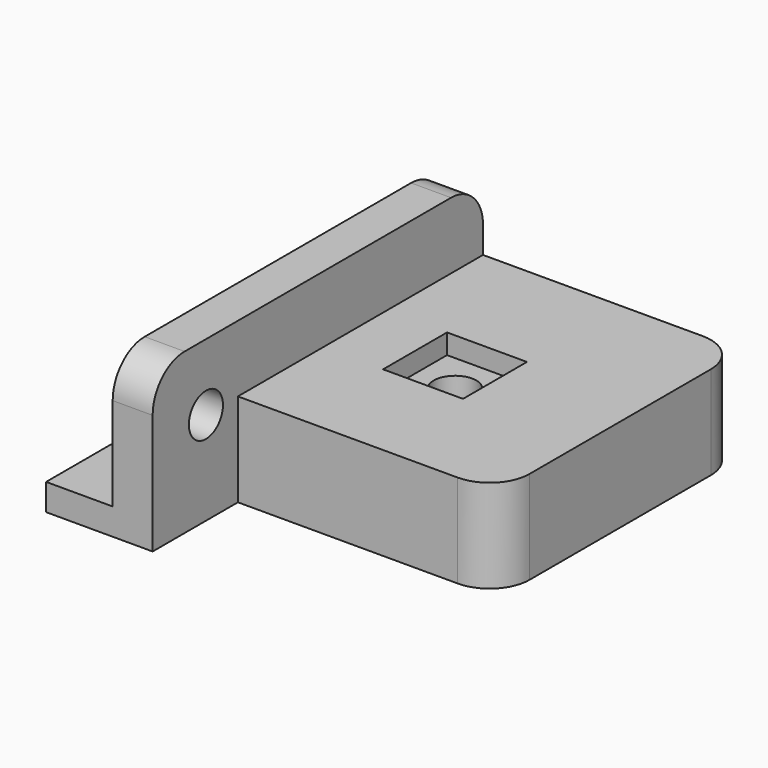
from build123d import *

# Parameters (mm, degrees)
CYLINDER004_R     = 10
CYLINDER004_DEPTH = 4
CYLINDER002_R     = 1.6
CYLINDER002_DEPTH = 3
BOX_W             = 5
BOX_H             = 31
BOX_DEPTH         = 2
BOX002_W          = 3
BOX002_H          = 31
BOX002_DEPTH      = 12
BOX005_W          = 3
BOX005_H          = 31
BOX005_DEPTH      = 5
CYLINDER003_R     = 1.6
CYLINDER003_DEPTH = 10
BOX004_W          = 6
BOX004_H          = 6
BOX004_DEPTH      = 2
CYLINDER_R        = 10
CYLINDER_DEPTH    = 4
BOX003_W          = 25
BOX003_H          = 23
BOX003_DEPTH      = 7
FILLET001_R       = 3
FILLET_R          = 3


with BuildPart() as cylinder004:
    # Cylinder004 → Cylinder004 (new body)
    with BuildSketch(Plane(origin=(7.5, 19, 0), x_dir=(1, 0, 0), z_dir=(0, 0, 1))):
        Circle(CYLINDER004_R)
    extrude(amount=CYLINDER004_DEPTH)


with BuildPart() as cylinder002:
    # Cylinder002 → Cylinder002 (new body)
    with BuildSketch(Plane(origin=(-3, 5, 7), x_dir=(0, 0, -1), z_dir=(1, 0, 0))):
        Circle(CYLINDER002_R)
    extrude(amount=CYLINDER002_DEPTH)


with BuildPart() as cube:
    # Box → Box (new body)
    with BuildSketch(Plane(origin=(-8, 0, 0), x_dir=(1, 0, 0), z_dir=(0, 0, 1))):
        with Locations((2.5, 15.5)):
            Rectangle(BOX_W, BOX_H)
    extrude(amount=BOX_DEPTH)


with BuildPart() as cut:
    # Box002 → Box002 (new body)
    with BuildSketch(Plane(origin=(-3, 0, 0), x_dir=(1, 0, 0), z_dir=(0, 0, 1))):
        with Locations((1.5, 15.5)):
            Rectangle(BOX002_W, BOX002_H)
    extrude(amount=BOX002_DEPTH)

    # Fusion: union Cube
    add(cube.part)

    # Cut: cut Cylinder002
    add(cylinder002.part, mode=Mode.SUBTRACT)


with BuildPart() as cube005:
    # Box005 → Box005 (new body)
    with BuildSketch(Plane(origin=(-6, 0, 2), x_dir=(1, 0, 0), z_dir=(0, 0, 1))):
        with Locations((1.5, 15.5)):
            Rectangle(BOX005_W, BOX005_H)
    extrude(amount=BOX005_DEPTH)


with BuildPart() as cylinder003:
    # Cylinder003 → Cylinder003 (new body)
    with BuildSketch(Plane(origin=(13, 19, 0), x_dir=(1, 0, 0), z_dir=(0, 0, 1))):
        Circle(CYLINDER003_R)
    extrude(amount=CYLINDER003_DEPTH)


with BuildPart() as cube004:
    # Box004 → Box004 (new body)
    with BuildSketch(Plane(origin=(10, 16, 5.5), x_dir=(1, 0, 0), z_dir=(0, 0, 1))):
        with Locations((3, 3)):
            Rectangle(BOX004_W, BOX004_H)
    extrude(amount=BOX004_DEPTH)


with BuildPart() as cylinder:
    # Cylinder → Cylinder (new body)
    with BuildSketch(Plane(origin=(13, 19, 0), x_dir=(1, 0, 0), z_dir=(0, 0, 1))):
        Circle(CYLINDER_R)
    extrude(amount=CYLINDER_DEPTH)


with BuildPart() as fillet_body:
    # Box003 → Box003 (new body)
    with BuildSketch(Plane(origin=(0, 8, 0), x_dir=(1, 0, 0), z_dir=(0, 0, 1))):
        with Locations((12.5, 11.5)):
            Rectangle(BOX003_W, BOX003_H)
    extrude(amount=BOX003_DEPTH)

    # Cut001: cut Cylinder
    add(cylinder.part, mode=Mode.SUBTRACT)

    # Cut002: cut Cube004
    add(cube004.part, mode=Mode.SUBTRACT)

    # Cut003: cut Cylinder003
    add(cylinder003.part, mode=Mode.SUBTRACT)


with BuildPart() as fillet_body_1:
    # Cut003 placement: moved
    add(fillet_body.part.moved(Location((-3, 0, 0))))

    # Fillet001
    fillet001_edges = [fillet_body_1.edges().sort_by_distance(p)[0] for p in [
        (22, 8, 3.5),
        (22, 31, 3.5),
    ]]
    fillet(fillet001_edges, radius=FILLET001_R)


with BuildPart() as fillet_body_2:
    # Fillet001 placement: moved
    add(fillet_body_1.part.moved(Location((-2.5, 0, 0))))

    # Cut004: cut Cube005
    add(cube005.part, mode=Mode.SUBTRACT)

    # Fusion001: union Cut
    add(cut.part)

    # Cut005: cut Cylinder004
    add(cylinder004.part, mode=Mode.SUBTRACT)

    # Fillet
    fillet_edges = [fillet_body_2.edges().sort_by_distance(p)[0] for p in [
        (-1.5, 31, 12),
        (-1.5, 0, 12),
    ]]
    fillet(fillet_edges, radius=FILLET_R)


solid = fillet_body_2.part
